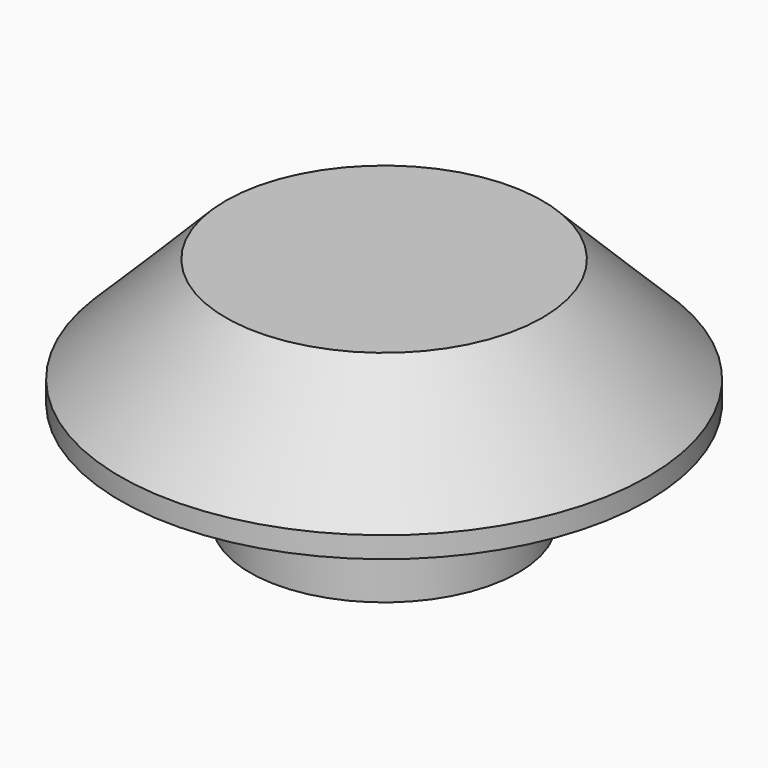
from build123d import *

# Parameters (mm, degrees)
CYLINDER972_R     = 8.75
CYLINDER972_DEPTH = 4.2
CYLINDER973_R     = 4.45
CYLINDER973_DEPTH = 3.5
CHAMFER008_SIZE   = 3.5


with BuildPart() as cylinder1035:
    # Cylinder972 → Cylinder972 (new body)
    with BuildSketch(Plane.XY):
        Circle(CYLINDER972_R)
    extrude(amount=CYLINDER972_DEPTH)


with BuildPart() as planetary_gear:
    # Cylinder973 → Cylinder973 (new body)
    with BuildSketch(Plane.XY.offset(-3.5)):
        Circle(CYLINDER973_R)
    extrude(amount=CYLINDER973_DEPTH)

    # Fusion111: union Cylinder1035
    add(cylinder1035.part)

    # Chamfer008
    chamfer008_edges = [planetary_gear.edges().sort_by_distance(p)[0] for p in [
        (-8.75, 0, 4.2),
    ]]
    chamfer(chamfer008_edges, length=CHAMFER008_SIZE)


solid = planetary_gear.part
